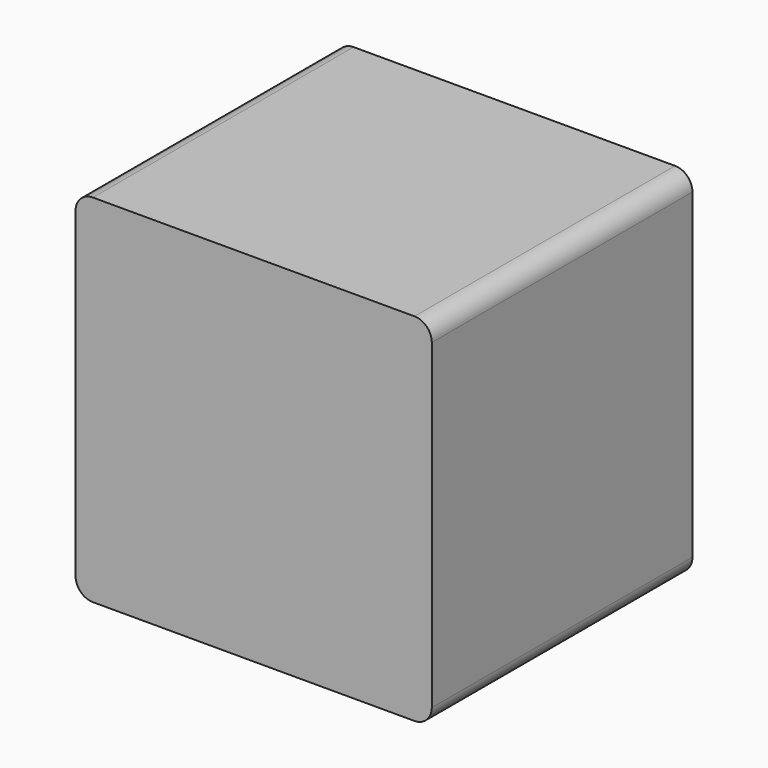
from build123d import *

# Parameters (mm, degrees)
F1_R     = 1.5
F1_R_2   = 4
F2_DEPTH = 37.5
F3_DEPTH = 3
F4_DEPTH = 10


with BuildPart() as f2:
    # F1 (on Front) → F2 (new body)
    with BuildSketch(Plane.XZ):
        with BuildLine():
            ThreePointArc((100, 102), (100.585786, 100.585786), (102, 100))
            Line((102, 100), (139, 100))
            ThreePointArc((139, 100), (140.414214, 100.585786), (141, 102))
            Line((141, 102), (141, 139))
            ThreePointArc((141, 139), (140.414214, 140.414214), (139, 141))
            Line((139, 141), (102, 141))
            ThreePointArc((102, 141), (100.585786, 140.414214), (100, 139))
            Line((100, 139), (100, 102))
        make_face()
        with Locations((104.75, 104.75)):
            Circle(F1_R, mode=Mode.SUBTRACT)
        with Locations((136.25, 104.75)):
            Circle(F1_R, mode=Mode.SUBTRACT)
        with Locations((104.75, 136.25)):
            Circle(F1_R, mode=Mode.SUBTRACT)
        with Locations((120.5, 120.5)):
            Circle(F1_R_2, mode=Mode.SUBTRACT)
        with Locations((136.25, 136.25)):
            Circle(F1_R, mode=Mode.SUBTRACT)
        with Locations((104.75, 136.25)):
            Circle(F1_R)
        with Locations((136.25, 136.25)):
            Circle(F1_R)
        with Locations((120.5, 120.5)):
            Circle(F1_R_2)
        with Locations((136.25, 104.75)):
            Circle(F1_R)
        with Locations((104.75, 104.75)):
            Circle(F1_R)
    extrude(amount=F2_DEPTH)

    # F1 (on Front) → F3 (cut)
    with BuildSketch(Plane.XZ):
        with Locations((136.25, 104.75)):
            Circle(F1_R)
        with Locations((104.75, 104.75)):
            Circle(F1_R)
        with Locations((136.25, 136.25)):
            Circle(F1_R)
        with Locations((104.75, 136.25)):
            Circle(F1_R)
    extrude(amount=F3_DEPTH, mode=Mode.SUBTRACT)

    # F1 (on Front) → F4 (join)
    with BuildSketch(Plane.XZ):
        with Locations((120.5, 120.5)):
            Circle(F1_R_2)
    extrude(amount=-F4_DEPTH)


solid = f2.part
